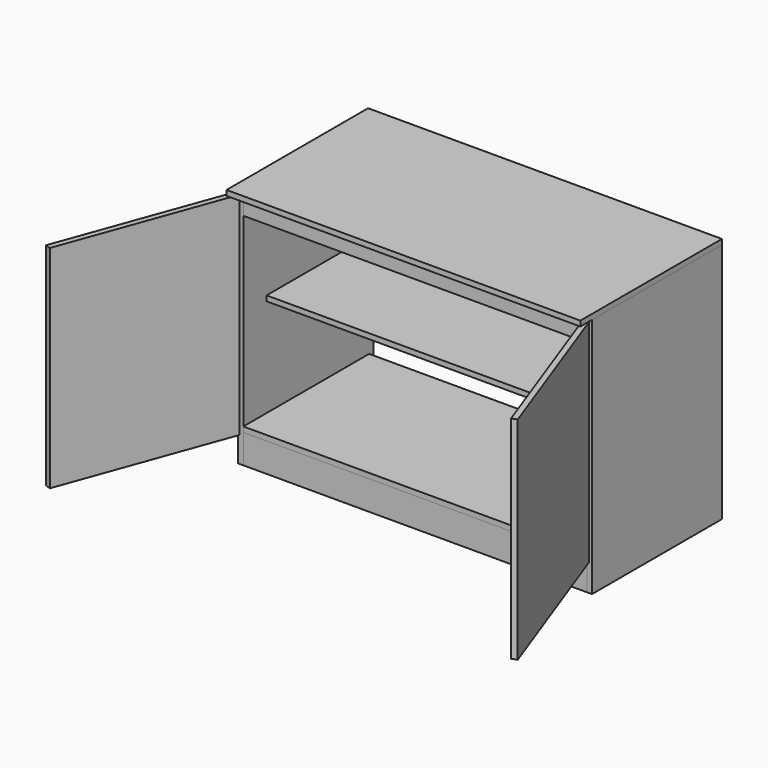
from build123d import *

# Parameters (mm, degrees)
F1_W      = 1219.2
F1_H      = 609.6
F2_DEPTH  = 18
F3_W      = 559.6
F3_H      = 832
F4_DEPTH  = 18
F7_DEPTH  = 18
F8_W      = 1183.2
F8_H      = 75
F9_DEPTH  = 18
F8_H_2    = 100
F10_DEPTH = 18
F8_H_3    = 18
F11_DEPTH = 541.6
F13_DEPTH = 1219.2
F15_W     = 1183.2
F15_H     = 441.6
F16_DEPTH = 18
F19_W     = 598.5
F19_H     = 729
F20_DEPTH = 19


with BuildPart() as f2:
    # F1 (on offset) → F2 (new body)
    with BuildSketch(Plane.XY.offset(850)):
        Rectangle(F1_W, F1_H)
    extrude(amount=-F2_DEPTH)


with BuildPart() as f4:
    # F3 (on face) → F4 (new body)
    with BuildSketch(Plane.YZ.offset(609.6)):
        with Locations((25, 416)):
            Rectangle(F3_W, F3_H)
    extrude(amount=-F4_DEPTH)


with BuildPart() as f5_1:
    # F5: instance of F4
    add(f4.part.mirror(Plane.YZ))


with BuildPart() as f7:
    # F6 (on face) → F7 (new body)
    with BuildSketch(Plane(origin=(0, 304.8, 0), x_dir=(-1, 0, 0), z_dir=(0, 1, 0))):
        Polygon((-591.6, 832), (-591.6, 0), (591.6, 0), (591.6, 832), (609.6, 832), (609.6, 1782), (-609.6, 1782), (-609.6, 832), align=None)
    extrude(amount=-F7_DEPTH)

    # F12 (on face) → F13 (join, through all)
    with BuildSketch(Plane.YZ.offset(609.6)):
        Polygon((247.8, 1782), (304.8, 1782), (304.8, 1800), (229.8, 1800), (229.8, 1782), (229.8, 1760), (247.8, 1760), align=None)
    extrude(amount=-F13_DEPTH)


with BuildPart() as f9:
    # F8 (on face) → F9 (new body)
    with BuildSketch(Plane.XZ.offset(254.8)):
        with Locations((0, 794.5)):
            Rectangle(F8_W, F8_H)
    extrude(amount=-F9_DEPTH)


with BuildPart() as f10:
    # F8 (on face) → F10 (new body)
    with BuildSketch(Plane.XZ.offset(254.8)):
        with Locations((0, 50)):
            Rectangle(F8_W, F8_H_2)
    extrude(amount=-F10_DEPTH)


with BuildPart() as f11:
    # F8 (on face) → F11 (new body, through all)
    with BuildSketch(Plane.XZ.offset(254.8)):
        with Locations((0, 109)):
            Rectangle(F8_W, F8_H_3)
    extrude(amount=-F11_DEPTH)


with BuildPart() as f16:
    # F15 (on mid) → F16 (new body)
    with BuildSketch(Plane.XY.offset(475)):
        with Locations((0, 66)):
            Rectangle(F15_W, F15_H)
    extrude(amount=-F16_DEPTH)


with BuildPart() as f20:
    # F19 (on line) → F20 (new body)
    with BuildSketch(Plane(origin=(433.434141094, 157.7571258729, 0), x_dir=(-0.3420201433, 0.9396926208, 0), z_dir=(0.9396926208, 0.3420201433, 0))):
        with Locations((-757.0227965677, 464.5)):
            Rectangle(F19_W, F19_H)
    extrude(amount=F20_DEPTH)


with BuildPart() as f21_1:
    # F21: instance of F20
    add(f20.part.mirror(Plane.YZ))


solid = Compound([f2.part, f4.part, f5_1.part, f9.part, f10.part, f11.part, f16.part, f20.part, f21_1.part])
